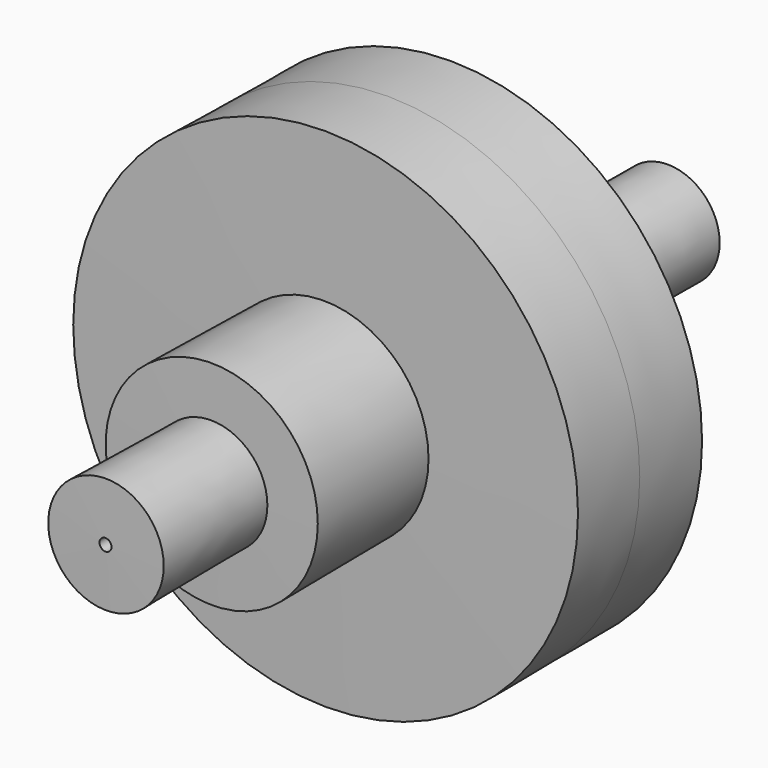
from build123d import *


with BuildPart() as f1:
    # F0 (on Top) → F1 (revolve)
    with BuildSketch(Plane.XY):
        Polygon((8.4902700037, 55.9782199562), (0.1424334466, 55.9782199562), (-0.143903846, -0.1439028856), (0.540450468, -56.2625835587), (8.8880770826, -56.2033797904), (8.7390731615, -35.1940904536), (16.7974333689, -35.1369382459), (16.6382236549, -12.6886501611), (40.5255011748, -12.5192347202), (40.4367111623, 0), (40.4367111623, 12.5195495784), (16.5488328785, 12.5195495784), (16.5488328785, 34.9684022367), (8.4902700037, 34.9684022367), align=None)
    revolve(axis=Axis((-1.0041e-06, 28.0610609116, 0), (0.0051019732, 0.9999869849, 0)))


solid = f1.part
